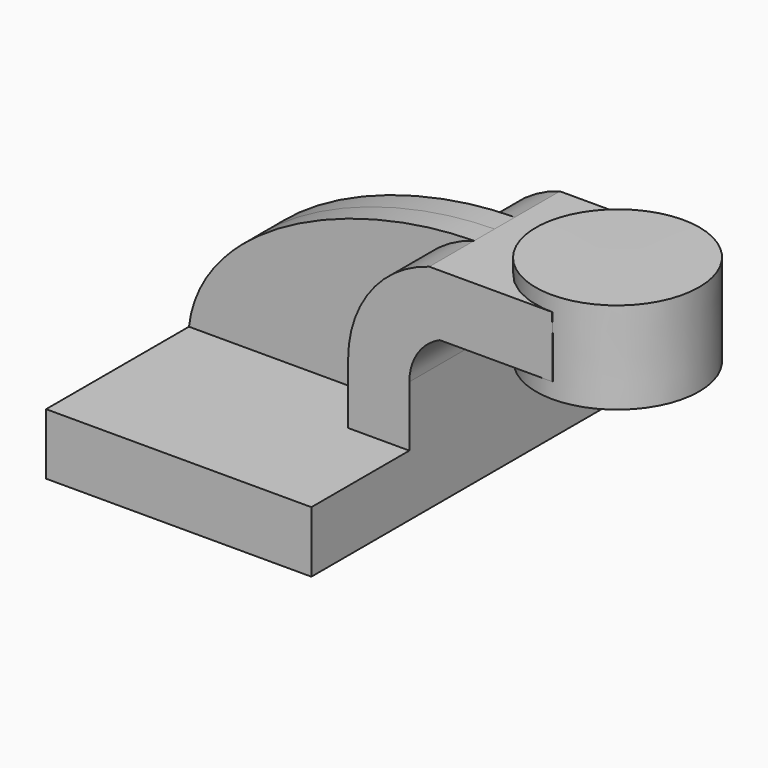
from build123d import *

# Parameters (mm, degrees)
F1_DEPTH = 63.5
F2_DEPTH = 25.4
F3_DEPTH = 7.9375


with BuildPart() as f1:
    # F0 (on Front) → F1 (new body, symmetric)
    with BuildSketch(Plane.XZ):
        Polygon((22.225, 9.525), (-41.275, 9.525), (-41.275, -9.525), (41.275, -9.525), (41.275, 9.525), align=None)
    extrude(amount=F1_DEPTH, both=True)

    # F0 (on Front) → F2 (join, symmetric)
    with BuildSketch(Plane.XZ):
        with BuildLine():
            Line((22.225, 28.3591020852), (22.225, 9.525))
            Line((22.225, 9.525), (41.275, 9.525))
            Line((41.275, 9.525), (41.275, 28.3591020852))
            ThreePointArc((41.275, 28.3591020852), (43.8406137103, 37.0151979062), (50.70870981, 42.8752))
            Line((50.70870981, 42.8752), (60.325, 42.8752))
            Line((60.325, 42.8752), (60.325, 61.9252))
            Line((60.325, 61.9252), (47.4760247778, 61.9252))
            ThreePointArc((47.4760247778, 61.9252), (29.2425829411, 49.3608709485), (22.225, 28.3591020852))
        make_face()
        Polygon((85.725, 61.9252), (60.325, 61.9252), (60.325, 42.8752), (85.8056546169, 42.8752), (85.7732894772, 52.4256), align=None)
    extrude(amount=F2_DEPTH, both=True)

    # F0 (on Front) → F3 (join, symmetric)
    with BuildSketch(Plane.XZ):
        with BuildLine():
            add(Edge.make_bspline(
                [(-41.275, 9.525), (-37.664603442, 40.6267233193), (8.1394920126, 61.5583099425), (47.4760247778, 61.9252)],
                knots=[0, 0, 0, 0, 103.0656361701, 103.0656361701, 103.0656361701, 103.0656361701], degree=3))
            Line((-41.275, 9.525), (22.225, 9.525))
            Line((22.225, 9.525), (22.225, 28.3591020852))
            ThreePointArc((22.225, 28.3591020852), (29.2425829411, 49.3608709485), (47.4760247778, 61.9252))
        make_face()
    extrude(amount=F3_DEPTH, both=True)


with BuildPart() as f4:
    # F0 (on Front) → F4 (revolve)
    with BuildSketch(Plane.XZ):
        Polygon((111.125, 66.675), (85.725, 66.675), (85.7732894772, 52.4256), (85.8218371868, 42.8752), (85.8056546169, 42.8752), (85.8218371868, 38.1), (111.125, 38.1), align=None)
    revolve(axis=Axis((85.7734185934, 0, 52.3875), (0.0033888585, 0, -0.9999942578)))


solid = Compound([f1.part, f4.part])
